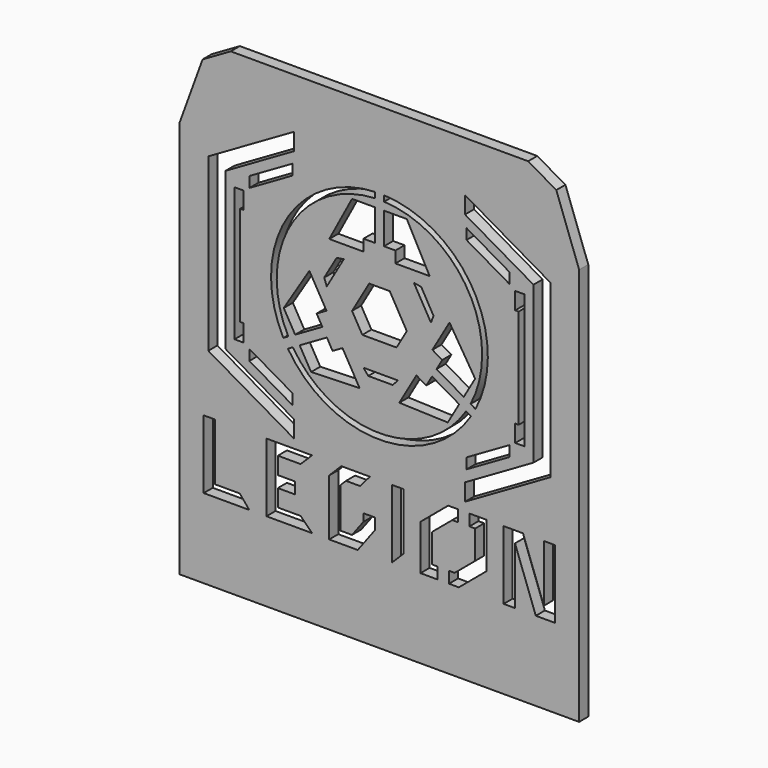
from build123d import *

# Parameters (mm, degrees)
F2_W      = 88.9
F2_H      = 114.3
F3_DEPTH  = 2.54
F4_DEPTH  = 25.4
F5_DEPTH  = 25.4
F7_DEPTH  = 25.4
F9_DEPTH  = 25.4
F11_DEPTH = 25.4
F13_DEPTH = 25.4


with BuildPart() as f3:
    # F2 (on face) → F3 (new body)
    with BuildSketch(Plane.XZ):
        with Locations((0, -7.8407183465)):
            Rectangle(F2_W, F2_H)
        Polygon((-38.1, -19.1021029655), (-38.1, 18.9978970345), (-19.05, 29.9964196626), (-19.05, 26.1864196626), (-34.29, 17.3876015601), (-34.29, -17.4918074911), (-19.05, -26.2906255936), (-19.05, -30.1006255936), align=None, mode=Mode.SUBTRACT)
    extrude(amount=-F3_DEPTH)

    # F0 (on Front) → F4 (cut)
    with BuildSketch(Plane.XZ):
        Polygon((38.1, 18.9978970345), (19.05, 29.9964196626), (19.05, 26.1864196626), (34.29, 17.3876015601), (34.29, -17.4918074911), (19.05, -26.2906255936), (19.05, -30.1006255936), (38.1, -19.1021029655), align=None)
    extrude(amount=-F4_DEPTH, mode=Mode.SUBTRACT)

    # F1 (on face) → F5 (cut)
    with BuildSketch(Plane.XZ):
        Polygon((-12.7148274644, -6.1677333123), (-13.9848274644, -3.9680287866), (-11.7851229387, -2.6980287866), (-15.5951229387, 3.9010847902), (-21.3040149098, -5.260824261), (-18.7640149098, -9.6602333123), align=None)
        Polygon((-4.4191229387, -15.4563150352), (-8.2291229387, -8.8572014584), (-10.4288274644, -10.1272014584), (-11.6988274644, -7.9274969327), (-17.7480149098, -11.4199969327), (-15.2080149098, -15.819405984), align=None)
        Polygon((11.6988274644, -7.9274969327), (10.4288274644, -10.1272014584), (8.2291229387, -8.8572014584), (4.4191229387, -15.4563150352), (15.2080149098, -15.819405984), (17.7480149098, -11.4199969327), align=None)
        Polygon((-3.556, -11.1893499563), (-2.4903434684, -12.4593499563), (2.9983434684, -12.4593499563), (4.064, -11.1893499563), align=None)
        Polygon((15.5951229387, 3.9010847902), (11.7851229387, -2.6980287866), (13.9848274644, -3.9680287866), (12.7148274644, -6.1677333123), (18.7640149098, -9.6602333123), (21.3040149098, -5.260824261), align=None)
        Polygon((11.468261314, 2.5150886423), (12.035285311, 4.0729742704), (9.2909418426, 8.8263165911), (7.658261314, 9.1142022192), align=None)
        Polygon((-2.286, 5.7192317666), (-6.096, -0.8798818102), (-3.81, -4.8393499563), (3.81, -4.8393499563), (6.096, -0.8798818102), (2.286, 5.7192317666), align=None)
        Polygon((-11.722261314, 2.0751477372), (-7.912261314, 8.674261314), (-9.5449418426, 8.386375686), (-12.289285311, 3.6330333653), align=None)
        Polygon((1.016, 21.080230245), (1.016, 14.095230245), (3.556, 14.095230245), (3.556, 11.555230245), (11.176, 11.555230245), (6.096, 21.080230245), align=None)
        Polygon((-3.556, 14.095230245), (-1.016, 14.095230245), (-1.016, 21.080230245), (-6.096, 21.080230245), (-11.176, 11.555230245), (-3.556, 11.555230245), align=None)
        with BuildLine():
            Line((1.0371222697, 24.10770162), (1.0371222697, 22.8376396766))
            ThreePointArc((1.0371222697, 22.8376396766), (19.8049193473, 11.4192196865), (20.2844433996, -10.5439444503))
            Line((20.2844433996, -10.5439444503), (21.3842956624, -11.1789444503))
            ThreePointArc((21.3842956624, -11.1789444503), (20.9037518939, 12.0536325129), (1.0371222697, 24.10770162))
        make_face()
        with BuildLine():
            ThreePointArc((19.2594149876, -12.3169940707), (-0.0131253337, -22.8611731179), (-19.2735454498, -12.2948710605))
            Line((-19.2735454498, -12.2948710605), (-20.3733977126, -12.9298710605))
            ThreePointArc((-20.3733977126, -12.9298710605), (-0.0131239829, -24.129996431), (20.3593208949, -12.9520250424))
            Line((20.3593208949, -12.9520250424), (19.2594149876, -12.3169940707))
        make_face()
        with BuildLine():
            Line((-1.0108979498, 22.8388155108), (-1.0108979498, 24.1088155108))
            ThreePointArc((-1.0108979498, 24.1088155108), (-20.890627911, 12.0763639181), (-21.3964431646, -11.1556765776))
            Line((-21.3964431646, -11.1556765776), (-20.2965372573, -10.5206456059))
            ThreePointArc((-20.2965372573, -10.5206456059), (-19.7917940136, 11.4419534314), (-1.0108979498, 22.8388155108))
        make_face()
    extrude(amount=-F5_DEPTH, mode=Mode.SUBTRACT)

    # F6 (on face) → F7 (cut)
    with BuildSketch(Plane.XZ):
        Polygon((-36.5887, -32.0848920188), (-39.1287, -32.0848920188), (-39.1287, -47.3248920188), (-28.9687, -47.3248920188), (-31.1000130632, -44.7848920188), (-36.5887, -44.7848920188), align=None)
        Polygon((-25.1587, -32.0848920188), (-25.1587, -47.3248920188), (-14.9987, -47.3248920188), (-17.5387, -44.7848920188), (-22.6187, -44.7848920188), (-22.6187, -40.9748920188), (-18.8087, -40.9748920188), (-18.8087, -38.4348920188), (-22.6187, -38.4348920188), (-22.6187, -34.6248920188), (-17.5387, -34.6248920188), (-14.9987, -32.0848920188), align=None)
        Polygon((-4.2675207153, -34.6248920188), (-2.1362076521, -32.0848920188), (-8.4946231637, -32.0848920188), (-11.1887, -34.7789688552), (-11.1887, -47.3248920188), (-4.8387, -47.3248920188), (-1.0287, -42.2448920188), (-1.0287, -39.7048920188), (-3.5687, -39.7048920188), (-3.5687, -41.3982253522), (-6.1087, -44.7848920188), (-8.6487, -44.7848920188), (-8.6487, -35.8310713036), (-7.4425207153, -34.6248920188), align=None)
        Polygon((5.3213, -32.0848920188), (2.7813, -32.0848920188), (2.7813, -47.3248920188), (5.3213, -44.7848920188), align=None)
        Polygon((9.1313, -37.2504705671), (9.1313, -47.3248920188), (12.9413, -47.3248920188), (12.9413, -44.7848920188), (11.6713, -44.7848920188), (11.6713, -38.4348920188), (16.2118811878, -34.6248920188), (17.4818811878, -34.6248920188), (17.4818811878, -32.0848920188), (15.2873967927, -32.0848920188), align=None)
        Polygon((27.6418811878, -32.0848920188), (27.6418811878, -47.3248920188), (30.1818811878, -47.3248920188), (30.1818811878, -34.6248920188), (34.804303163, -47.3248920188), (39.12283031, -47.3248920188), (39.12283031, -32.0848920188), (36.58283031, -32.0848920188), (36.58283031, -44.7848920188), (31.9604083348, -32.0848920188), align=None)
        Polygon((23.8318811878, -42.1593134705), (23.8318811878, -32.0848920188), (20.0218811878, -32.0848920188), (20.0218811878, -34.6248920188), (21.2918811878, -34.6248920188), (21.2918811878, -40.9748920188), (16.7513, -44.7848920188), (15.4813, -44.7848920188), (15.4813, -47.3248920188), (17.675784395, -47.3248920188), align=None)
    extrude(amount=-F7_DEPTH, mode=Mode.SUBTRACT)

    # F8 (on face) → F9 (cut)
    with BuildSketch(Plane.XZ):
        Polygon((-44.45, 49.3092816535), (-44.45, 34.6445848161), (-39.37, 37.5775241836), (-33.10037815, 41.1972920464), (-19.05, 49.3092816535), align=None)
        Polygon((19.05, 49.3092816535), (33.10037815, 41.1972920464), (39.37, 37.5775241836), (44.45, 34.6445848161), (44.45, 49.3092816535), align=None)
        Polygon((-39.37, 37.5775241836), (-44.45, 34.6445848161), (-44.45, 23.6203388928), align=None)
        Polygon((44.45, 34.6445848161), (39.37, 37.5775241836), (44.45, 23.6203388928), align=None)
        Polygon((-19.05, 49.3092816535), (-33.10037815, 41.1972920464), (33.10037815, 41.1972920464), (19.05, 49.3092816535), align=None)
    extrude(amount=-F9_DEPTH, mode=Mode.SUBTRACT)

    # F10 (on face) → F11 (cut)
    with BuildSketch(Plane.XZ):
        Polygon((-32.258, 14.8476015601), (-32.258, -14.9518074911), (-30.226, -14.9518074911), (-30.226, -11.1418074911), (-30.988, -11.1418074911), (-30.988, 11.0376015601), (-30.226, 11.0376015601), (-30.226, 14.8476015601), align=None)
        Polygon((30.226, 11.0376015601), (30.988, 11.0376015601), (30.988, -11.1418074911), (30.226, -11.1418074911), (30.226, -14.9518074911), (32.258, -14.9518074911), (32.258, 14.8476015601), (30.226, 14.8476015601), align=None)
    extrude(amount=-F11_DEPTH, mode=Mode.SUBTRACT)

    # F12 (on face) → F13 (cut)
    with BuildSketch(Plane.XZ):
        Polygon((-19.3854090512, 23.6464196626), (-28.956, 18.120836402), (-28.956, 15.774484908), (-19.3854090512, 21.3000681686), align=None)
        Polygon((-19.3854090512, -21.3000681686), (-28.956, -15.774484908), (-28.956, -18.120836402), (-19.3854090512, -23.6464196626), align=None)
        Polygon((28.956, -18.120836402), (28.956, -15.774484908), (19.3854090512, -21.3000681686), (19.3854090512, -23.6464196626), align=None)
        Polygon((19.3854090512, 21.3000681686), (28.956, 15.774484908), (28.956, 18.120836402), (19.3854090512, 23.6464196626), align=None)
    extrude(amount=-F13_DEPTH, mode=Mode.SUBTRACT)


solid = f3.part
